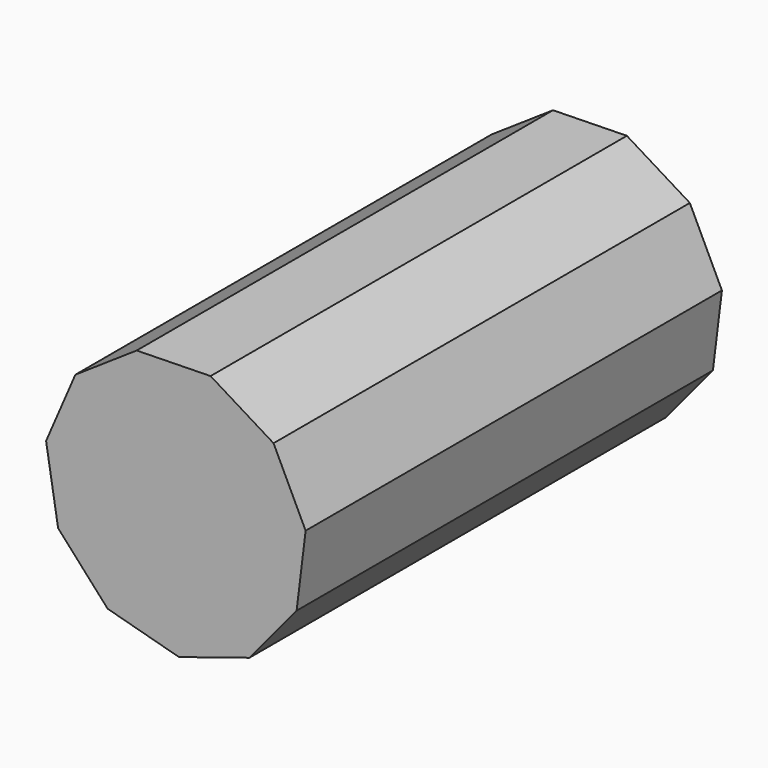
from build123d import *

# Parameters (mm, degrees)
F1_DEPTH = 100


with BuildPart() as f1:
    # F0 (on Front) → F1 (new body, symmetric)
    with BuildSketch(Plane.XZ):
        Polygon((-15.199252, 48.053728), (-38.766231, 32.208033), (-50.025206, 6.136514), (-45.401532, -21.883304), (-26.363192, -42.955328), (1.045276, -50.389339), (28.121875, -41.825091), (46.269978, -19.981672), (49.72769, 8.205787), (37.397212, 33.787966), (13.193383, 48.642705), align=None)
    extrude(amount=F1_DEPTH, both=True)


solid = f1.part
